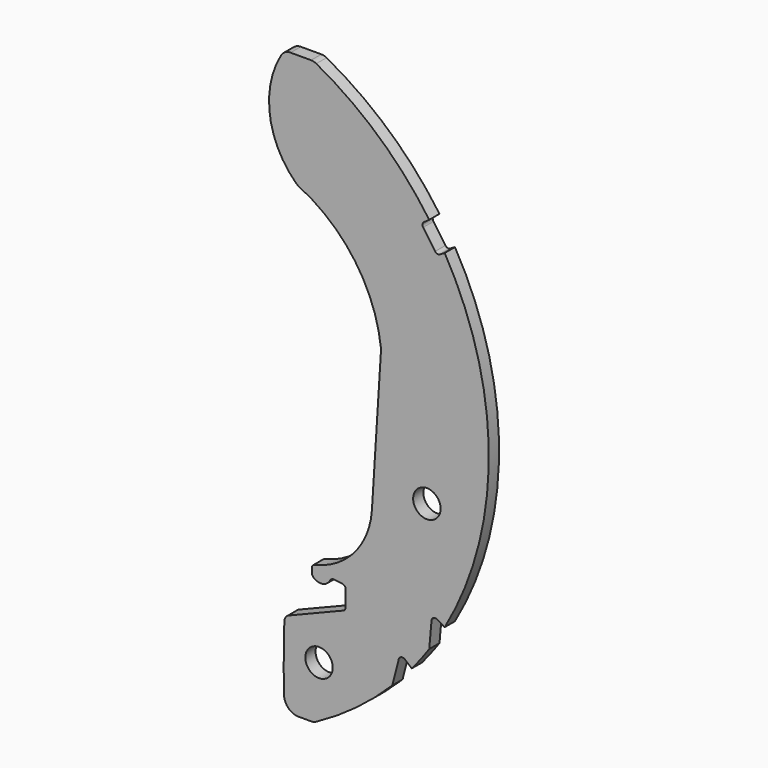
from build123d import *

# Parameters (mm, degrees)
F1_DEPTH = 3.5
F2_D     = 7.5
F4_DEPTH = 25


with BuildPart() as f1:
    # F0 (on Front) → F1 (new body)
    with BuildSketch(Plane.XZ):
        with BuildLine():
            ThreePointArc((41.4336819508, -79.5), (42.1706374775, -79.4080743718), (42.8624296043, -79.1379310345))
            ThreePointArc((42.8624296043, -79.1379310345), (90, 0), (42.8624296043, 79.1379310345))
            ThreePointArc((42.8624296043, 79.1379310345), (42.1706374775, 79.4080743718), (41.4336819508, 79.5))
            Line((41.4336819508, 79.5), (35.8331652233, 79.5))
            ThreePointArc((35.8331652233, 79.5), (34.3404775581, 79.1022842916), (33.2435667811, 78.0145890229))
            ThreePointArc((33.2435667811, 78.0145890229), (30.1884169541, 62.5971202701), (37.3284684526, 48.5952651142))
            ThreePointArc((37.3284684526, 48.5952651142), (37.696787223, 48.2936203298), (38.1081859652, 48.054038679))
            ThreePointArc((38.1081859652, 48.054038679), (53.4450002112, 35.0932650584), (60.5514057613, 16.3129955125))
            ThreePointArc((60.5514057613, 16.3129955125), (60.556983556, 16.2276326693), (60.5552452702, 16.1421054506))
            Line((60.5552452702, 16.1421054506), (58.0653059802, -23.2613034815))
            ThreePointArc((58.0653059802, -23.2613034815), (53.3089478497, -34.9939813299), (42.4604654753, -41.5200139942))
            ThreePointArc((42.4604654753, -41.5200139942), (41.8979228629, -41.8706217716), (41.6782328608, -42.4960146939))
            Line((41.6782328608, -42.4960146939), (41.6782328608, -43.8381428359))
            ThreePointArc((41.6782328608, -43.8381428359), (41.7451451632, -44.1977917599), (41.9369275579, -44.5093108088))
            ThreePointArc((41.9369275579, -44.5093108088), (44.4656332073, -45.4380618454), (46.6673711793, -43.8858760796))
            ThreePointArc((46.6673711793, -43.8858760796), (47.0897331674, -43.4580841529), (47.6810548772, -43.3497595621))
            Line((47.6810548772, -43.3497595621), (49.9965035646, -43.6386380299))
            ThreePointArc((49.9965035646, -43.6386380299), (50.6223024281, -43.9690543814), (50.8727020195, -44.6309450275))
            Line((50.8727020195, -44.6309450275), (50.8727020195, -49.0738430408))
            ThreePointArc((50.8727020195, -49.0738430408), (50.7018924929, -49.6328091926), (50.2478157018, -50.0008218568))
            Line((50.2478157018, -50.0008218568), (35.3876870019, -56.0141605654))
            ThreePointArc((35.3876870019, -56.0141605654), (34.4991811471, -56.7215784312), (34.1391186959, -57.7987217467))
            ThreePointArc((34.1391186959, -57.7987217467), (33.9649542689, -66.7004891105), (34.0604191652, -75.6034482759))
            ThreePointArc((34.0604191652, -75.6034482759), (35.2674681933, -78.3647681497), (38.0590812482, -79.5))
            Line((38.0590812482, -79.5), (41.4336819508, -79.5))
        make_face()
    extrude(amount=F1_DEPTH)

    # F2 (through all)
    with Locations(Plane(origin=(0, 0, 0), x_dir=(1, 0, 0), z_dir=(0, 1, 0))):
        with Locations((73.0777548589, 16.8713290758), (43.6170464707, 64.6649306593)):
            Hole(F2_D / 2)

    # F3 (on face) → F4 (cut)
    with BuildSketch(Plane.XZ.offset(3.5)):
        with BuildLine():
            Line((76.6596311124, 44.2594586587), (77.9422863406, 45))
            ThreePointArc((77.9422863406, 45), (75.9052301232, 48.3569647512), (73.723683986, 51.6218792716))
            Line((73.723683986, 51.6218792716), (72.305921722, 50.629151447))
            ThreePointArc((72.305921722, 50.629151447), (71.8946904054, 49.9836475804), (72.0603461141, 49.2364229663))
            Line((72.0603461141, 49.2364229663), (75.3404790681, 44.5519076262))
            ThreePointArc((75.3404790681, 44.5519076262), (75.9431914985, 44.1491880554), (76.6596311124, 44.2594586587))
        make_face()
        with BuildLine():
            Line((74.3439292434, -44.5647694037), (73.723683986, -51.6218792716))
            ThreePointArc((73.723683986, -51.6218792716), (75.9052301232, -48.3569647512), (77.9422863406, -45))
            Line((77.9422863406, -45), (75.8400892015, -43.7862959158))
            ThreePointArc((75.8400892015, -43.7862959158), (74.8785169765, -43.7652186868), (74.3439292434, -44.5647694037))
        make_face()
        with BuildLine():
            Line((65.4019169356, -56.7492744962), (63.6396103068, -63.6396103068))
            ThreePointArc((63.6396103068, -63.6396103068), (66.3549603129, -60.8031186854), (68.9439998807, -57.8508848718))
            Line((68.9439998807, -57.8508848718), (67.0135186397, -56.2310187745))
            ThreePointArc((67.0135186397, -56.2310187745), (66.0645928824, -56.0450761197), (65.4019169356, -56.7492744962))
        make_face()
    extrude(amount=-F4_DEPTH, mode=Mode.SUBTRACT)


solid = f1.part
